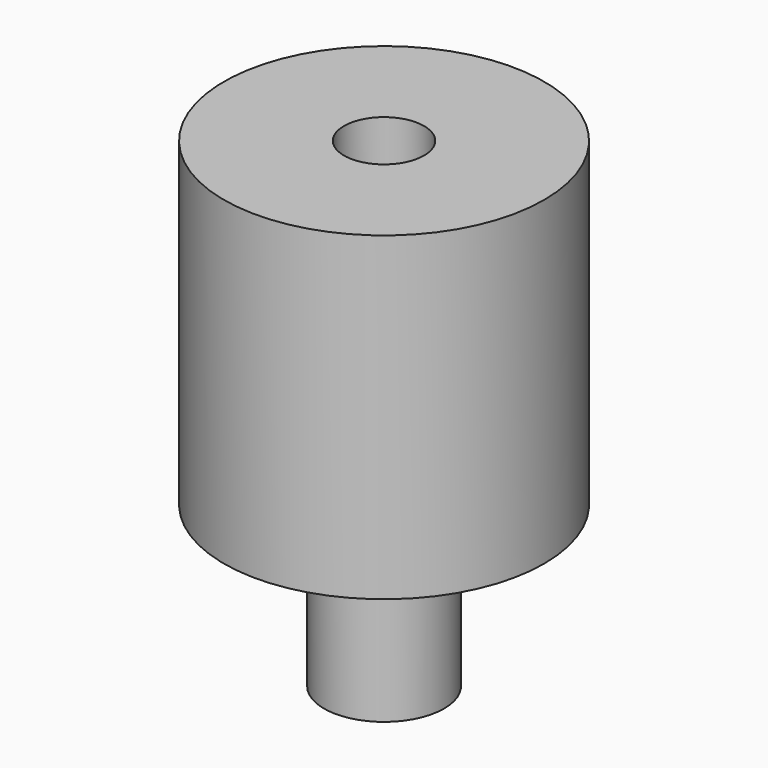
from build123d import *

# Parameters (mm, degrees)
F0_R     = 38.1
F1_DEPTH = 101.6
F2_R     = 101.6
F3_DEPTH = 203.2
F4_R     = 25.4
F5_DEPTH = 50.8


with BuildPart() as f1:
    # F0 (on Top) → F1 (new body)
    with BuildSketch(Plane.XY):
        Circle(F0_R)
        Polygon((-19.05, 7.890768), (-7.890768, 19.05), (7.890768, 19.05), (19.05, 7.890768), (19.05, -7.890768), (7.890768, -19.05), (-7.890768, -19.05), (-19.05, -7.890768), align=None, mode=Mode.SUBTRACT)
    extrude(amount=F1_DEPTH)

    # F2 (on face) → F3 (join)
    with BuildSketch(Plane.XY.offset(101.6)):
        Circle(F2_R)
    extrude(amount=F3_DEPTH)

    # F4 (on face) → F5 (cut)
    with BuildSketch(Plane.XY.offset(304.8)):
        Circle(F4_R)
    extrude(amount=-F5_DEPTH, mode=Mode.SUBTRACT)


solid = f1.part
